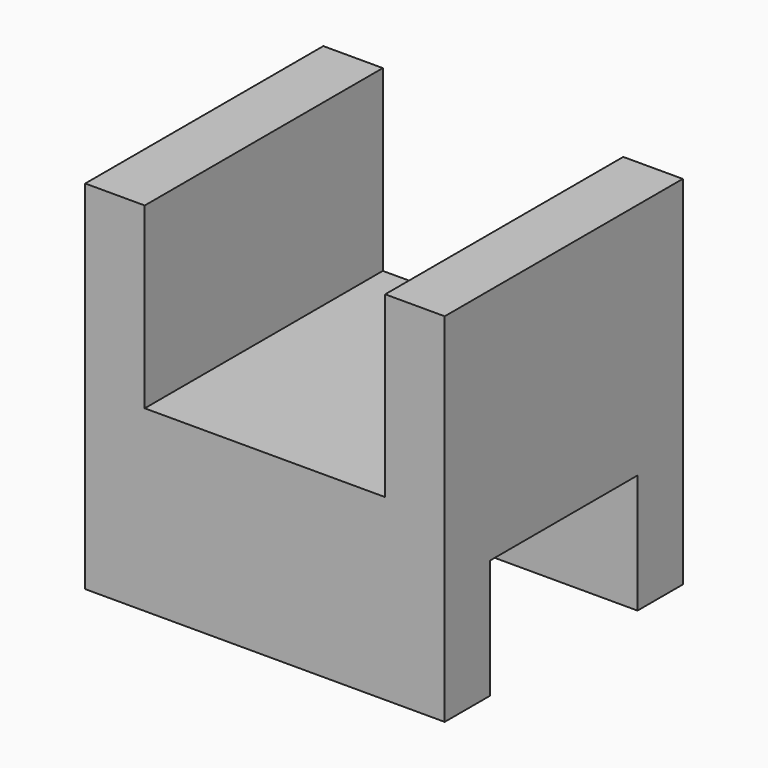
from build123d import *

# Parameters (mm, degrees)
F1_DEPTH = 25
F2_W     = 15.5
F2_H     = 10
F3_DEPTH = 30.2


with BuildPart() as f1:
    # F0 (on Front) → F1 (new body)
    with BuildSketch(Plane.XZ):
        Polygon((20.2, 0), (0, 0), (0, 15), (-5, 15), (-5, -15), (25.2, -15), (25.2, 15), (20.2, 15), align=None)
    extrude(amount=F1_DEPTH)

    # F2 (on face) → F3 (cut, through all)
    with BuildSketch(Plane.YZ.offset(25.2)):
        with Locations((-12.5, -10)):
            Rectangle(F2_W, F2_H)
    extrude(amount=-F3_DEPTH, mode=Mode.SUBTRACT)


solid = f1.part
